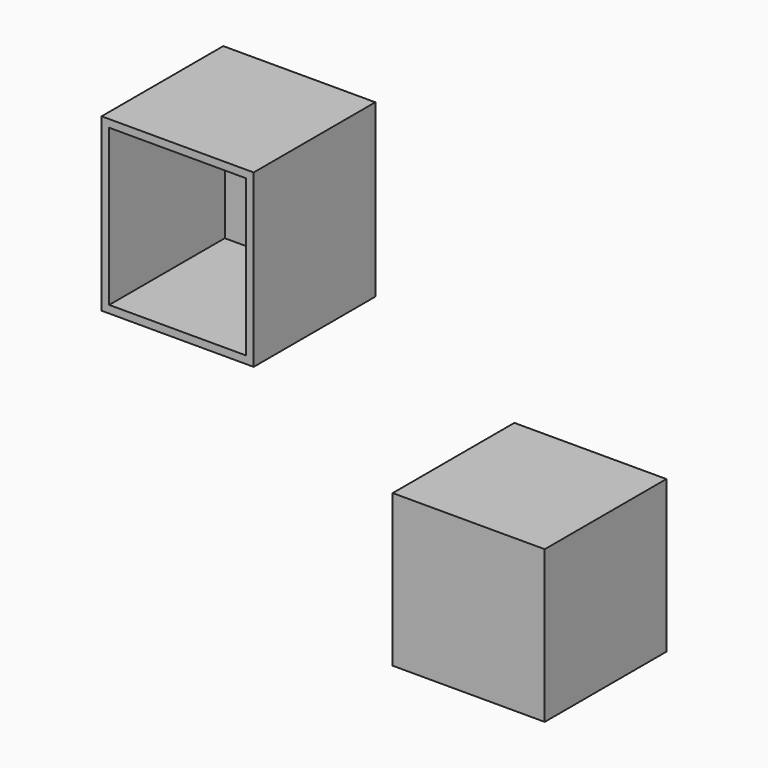
from build123d import *

# Parameters (mm, degrees)
F0_W     = 40
F0_H     = 45.038354
F1_DEPTH = 40
F2_T     = -2
F4_W     = 40
F4_H     = 40
F5_DEPTH = 40
F6_T     = -2


with BuildPart() as f1:
    # F0 (on Front) → F1 (new body)
    with BuildSketch(Plane.XZ):
        with Locations((-56.582971, 39.842363)):
            Rectangle(F0_W, F0_H)
    extrude(amount=F1_DEPTH)

    # F2
    f2_openings = [f1.faces().sort_by_distance(p)[0] for p in [
        (-56.582971, -40, 39.842363),
    ]]
    offset(amount=F2_T, openings=f2_openings)


with BuildPart() as f5:
    # F4 (on Front) → F5 (new body)
    with BuildSketch(Plane.XZ):
        with Locations((20, -20)):
            Rectangle(F4_W, F4_H)
    extrude(amount=F5_DEPTH)

    # F6
    f6_openings = [f5.faces().sort_by_distance(p)[0] for p in [
        (20, 0, -20),
    ]]
    offset(amount=F6_T, openings=f6_openings)


solid = Compound([f1.part, f5.part])
